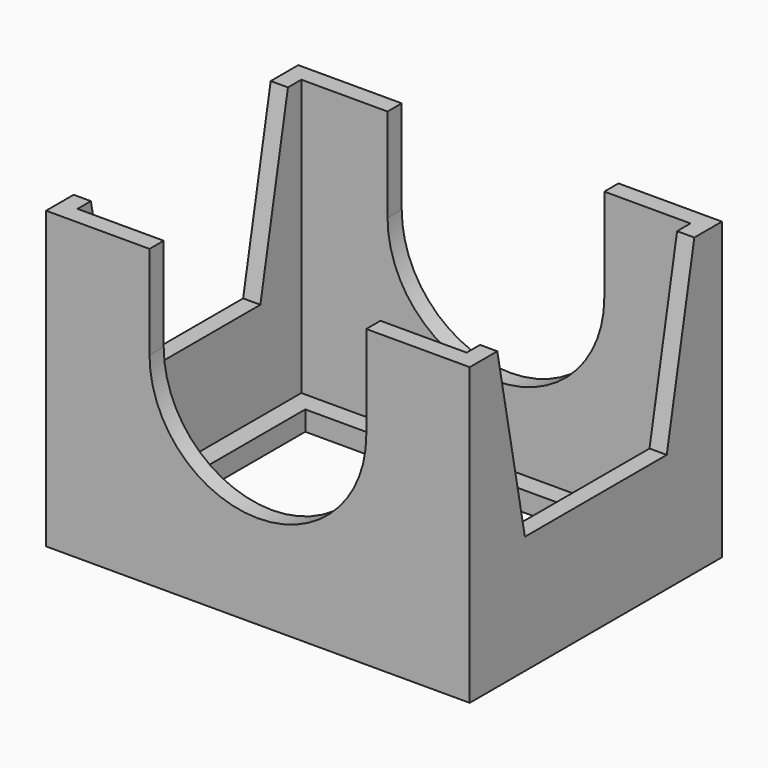
from build123d import *

# Parameters (mm, degrees)
SKETCH_W        = 43
SKETCH_H        = 32
PAD_DEPTH       = 30
SKETCH001_W     = 39.5
SKETCH001_H     = 28.4
POCKET_DEPTH    = 28
POCKET001_DEPTH = 32.001
SKETCH003_W     = 35.5
SKETCH003_H     = 24.4
POCKET002_DEPTH = 2.001
POCKET003_DEPTH = 43.001


with BuildPart() as part:
    # Sketch → Pad (new body)
    with BuildSketch(Plane.XY):
        Rectangle(SKETCH_W, SKETCH_H)
    extrude(amount=PAD_DEPTH)

    # Sketch001 → Pocket (cut)
    with BuildSketch(Plane.XY.offset(30)):
        Rectangle(SKETCH001_W, SKETCH001_H)
    extrude(amount=-POCKET_DEPTH, mode=Mode.SUBTRACT)

    # Sketch002 → Pocket001 (cut, through all)
    with BuildSketch(Plane.XZ.offset(16)):
        with BuildLine():
            Line((-11, 30), (11, 30))
            Line((11, 30), (11, 20.499955))
            ThreePointArc((-11, 20.499955), (0, 9.5), (11, 20.499955))
            Line((-11, 20.499955), (-11, 30))
        make_face()
    extrude(amount=-POCKET001_DEPTH, mode=Mode.SUBTRACT)

    # Sketch003 → Pocket002 (cut, through all)
    with BuildSketch(Plane.XY.offset(2)):
        Rectangle(SKETCH003_W, SKETCH003_H)
    extrude(amount=-POCKET002_DEPTH, mode=Mode.SUBTRACT)

    # Sketch004 → Pocket003 (cut, through all)
    with BuildSketch(Plane(origin=(-21.5, 0, 0), x_dir=(0, -1, 0), z_dir=(-1, 0, 0))):
        Polygon((-12.5, 30), (12.5, 30), (9, 12), (-9, 12), align=None)
    extrude(amount=-POCKET003_DEPTH, mode=Mode.SUBTRACT)


solid = part.part
